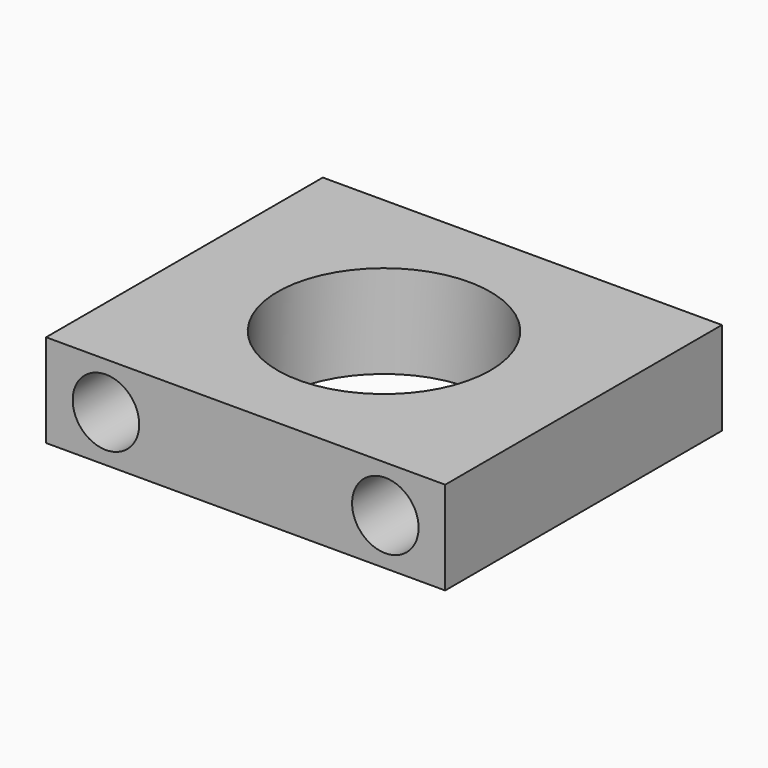
from build123d import *

# Parameters (mm, degrees)
SKETCH_W     = 30
SKETCH_H     = 26
SKETCH_R     = 8
PAD_DEPTH    = 7
SKETCH001_R  = 2.5
POCKET_DEPTH = 26.001


with BuildPart() as part:
    # Sketch → Pad (new body)
    with BuildSketch(Plane.XY):
        Rectangle(SKETCH_W, SKETCH_H)
        Circle(SKETCH_R, mode=Mode.SUBTRACT)
    extrude(amount=PAD_DEPTH)

    # Sketch001 (on Face3 of Pad) → Pocket (cut, through all)
    with BuildSketch(Plane.XZ.offset(13)):
        with Locations((10.5, 3.5)):
            Circle(SKETCH001_R)
        with Locations((-10.5, 3.5)):
            Circle(SKETCH001_R)
    extrude(amount=-POCKET_DEPTH, mode=Mode.SUBTRACT)


solid = part.part
